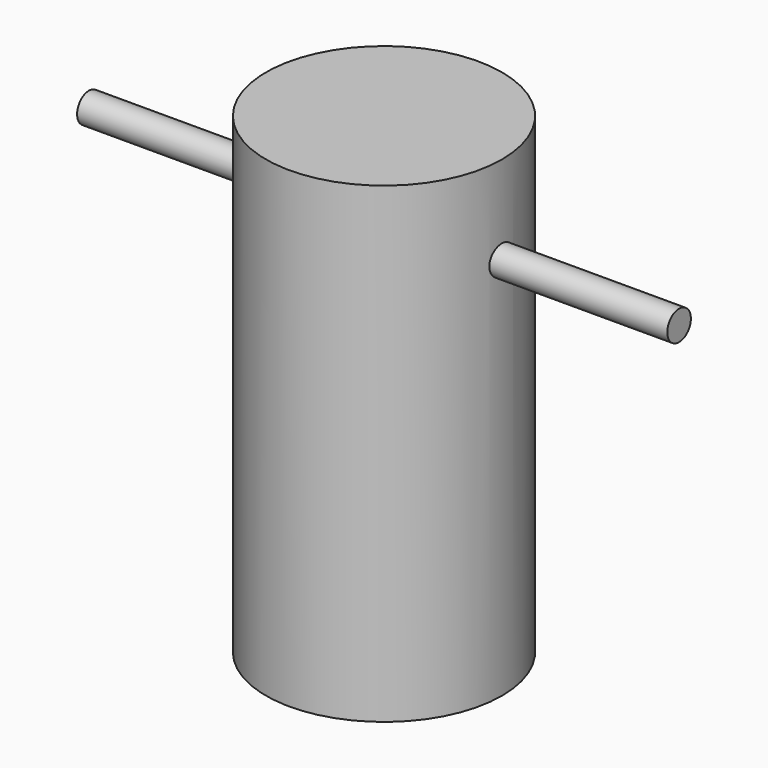
from build123d import *

# Parameters (mm, degrees)
F0_R          = 50.8
F1_DEPTH      = 203.2
F2_R          = 6.35
F3_DEPTH      = 127
F3_DEPTH_BACK = 127
F4_R          = 38.1
F5_DEPTH      = 177.8


with BuildPart() as f1:
    # F0 (on Top) → F1 (new body)
    with BuildSketch(Plane.XY):
        Circle(F0_R)
    extrude(amount=F1_DEPTH)

    # F2 (on Right) → F3 (join, two sides)
    with BuildSketch(Plane.YZ) as f3_sk:
        with Locations((0, 165.1)):
            Circle(F2_R)
    extrude(amount=F3_DEPTH)
    extrude(f3_sk.sketch, amount=-F3_DEPTH_BACK)

    # F4 (on face) → F5 (cut)
    with BuildSketch(Plane(origin=(0, 0, 0), x_dir=(1, 0, 0), z_dir=(0, 0, -1))):
        Circle(F4_R)
    extrude(amount=-F5_DEPTH, mode=Mode.SUBTRACT)


solid = f1.part
